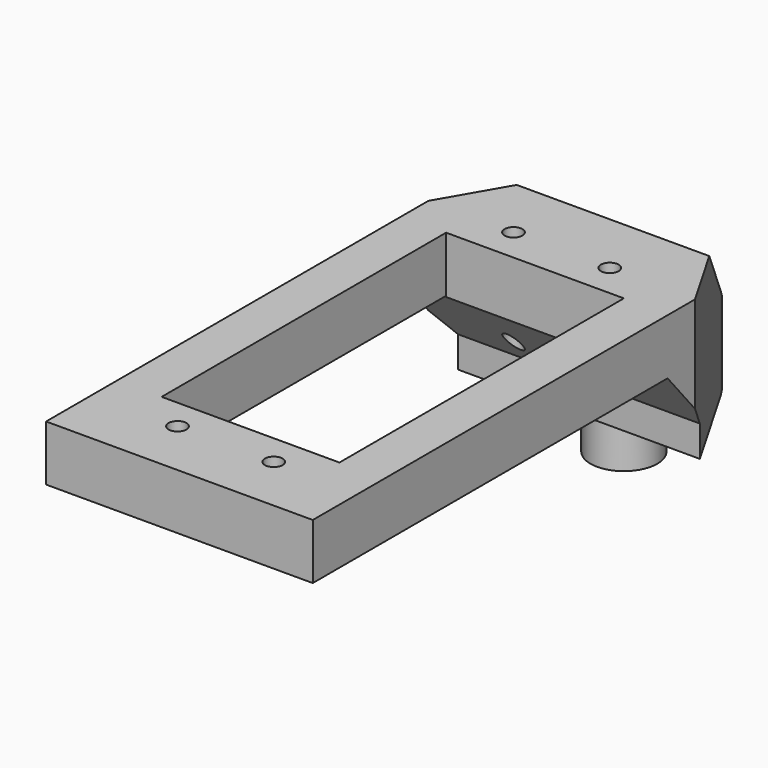
from build123d import *

# Parameters (mm, degrees)
F0_R           = 1.016
F0_W           = 20.32
F0_H           = 40.64
F2_DEPTH       = 17.526
F3_START       = -25.4
F3_DEPTH       = 40.641
F4_R           = 3.81
F5_DEPTH       = 6.35
F7_D           = 2.032
F7_CSINK_D     = 3.175
F7_CSINK_ANGLE = 82


with BuildPart() as f2:
    # F0 (on Top) → F2 (new body, through all)
    with BuildSketch(Plane.XY):
        with BuildLine():
            Line((-15.24, 13.97), (-15.24, -40.64))
            Line((-15.24, -40.64), (15.24, -40.64))
            Line((15.24, -40.64), (15.24, 13.97))
            Line((15.24, 13.97), (7.5805170802, 27.2366135768))
            ThreePointArc((7.5805170802, 27.2366135768), (0, 31.6132271537), (-7.5805170802, 27.2366135768))
            Line((-7.5805170802, 27.2366135768), (-15.24, 13.97))
        make_face()
        with Locations((-5.4991, -34.036)):
            Circle(F0_R, mode=Mode.SUBTRACT)
        with Locations((5.4991, -34.036)):
            Circle(F0_R, mode=Mode.SUBTRACT)
        with Locations((0, -10.16)):
            Rectangle(F0_W, F0_H, mode=Mode.SUBTRACT)
        with Locations((-5.4991, 13.97)):
            Circle(F0_R, mode=Mode.SUBTRACT)
        with Locations((5.4991, 13.97)):
            Circle(F0_R, mode=Mode.SUBTRACT)
    extrude(amount=-F2_DEPTH)

    # F1 (on Right) → F3 (intersect)
    with BuildSketch(Plane.YZ.offset(F3_START)):
        Polygon((21.3039489306, 0), (-40.64, 0), (-40.64, -6.35), (10.053559014, -6.35), (16.4474982036, -13.97), (16.4474982036, -17.526), (31.6132271537, -17.526), (31.6132271537, -12.2861193594), align=None)
    extrude(amount=F3_DEPTH, mode=Mode.INTERSECT)

    # F4 (on face) → F5 (join)
    with BuildSketch(Plane(origin=(0, 0, -17.526), x_dir=(1, 0, 0), z_dir=(0, 0, -1))):
        with Locations((0, -22.86)):
            Circle(F4_R)
    extrude(amount=F5_DEPTH)

    # F7 (through all)
    with Locations(Plane(origin=(0, 0, -23.876), x_dir=(1, 0, 0), z_dir=(0, 0, -1))):
        with Locations((0, -22.86)):
            CounterSinkHole(F7_D / 2, F7_CSINK_D / 2, counter_sink_angle=F7_CSINK_ANGLE)


solid = f2.part
